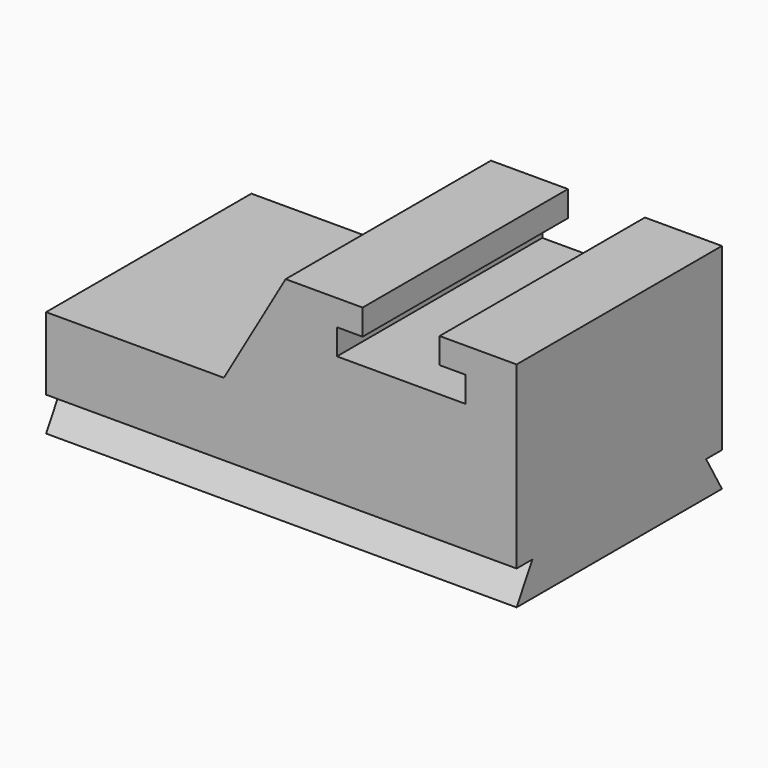
from build123d import *

# Parameters (mm, degrees)
F0_W      = 2794
F0_H      = 1270
F1_DEPTH  = 1524
F2_W      = 762
F2_H      = 152.4
F3_DEPTH  = 1524.001
F4_W      = 457.2
F4_H      = 152.4
F5_DEPTH  = 1524.001
F7_DEPTH  = 1524.001
F9_DEPTH  = 2794.001
F11_DEPTH = 2794.001


with BuildPart() as f1:
    # F0 (on Front) → F1 (new body)
    with BuildSketch(Plane.XZ):
        with Locations((1397, 635)):
            Rectangle(F0_W, F0_H)
    extrude(amount=F1_DEPTH)

    # F2 (on face) → F3 (cut, through all)
    with BuildSketch(Plane.XZ.offset(1524)):
        with Locations((2108.2, 1041.4)):
            Rectangle(F2_W, F2_H)
    extrude(amount=-F3_DEPTH, mode=Mode.SUBTRACT)

    # F4 (on face) → F5 (cut, through all)
    with BuildSketch(Plane.XZ.offset(1524)):
        with Locations((2108.2, 1193.8)):
            Rectangle(F4_W, F4_H)
    extrude(amount=-F5_DEPTH, mode=Mode.SUBTRACT)

    # F6 (on face) → F7 (cut, through all)
    with BuildSketch(Plane.XZ.offset(1524)):
        Polygon((1055.7825790646, 635), (1422.4, 1270), (0, 1270), (0, 635), align=None)
    extrude(amount=-F7_DEPTH, mode=Mode.SUBTRACT)

    # F8 (on face) → F9 (cut, through all)
    with BuildSketch(Plane(origin=(0, 0, 0), x_dir=(0, -1, 0), z_dir=(-1, 0, 0))):
        Polygon((1406.6824253007, 203.2), (1524, 0), (1524, 203.2), align=None)
    extrude(amount=-F9_DEPTH, mode=Mode.SUBTRACT)

    # F10 (on face) → F11 (cut, through all)
    with BuildSketch(Plane(origin=(0, 0, 0), x_dir=(0, -1, 0), z_dir=(-1, 0, 0))):
        Polygon((0, 203.2), (0, 0), (117.3175746993, 203.2), align=None)
    extrude(amount=-F11_DEPTH, mode=Mode.SUBTRACT)


solid = f1.part
